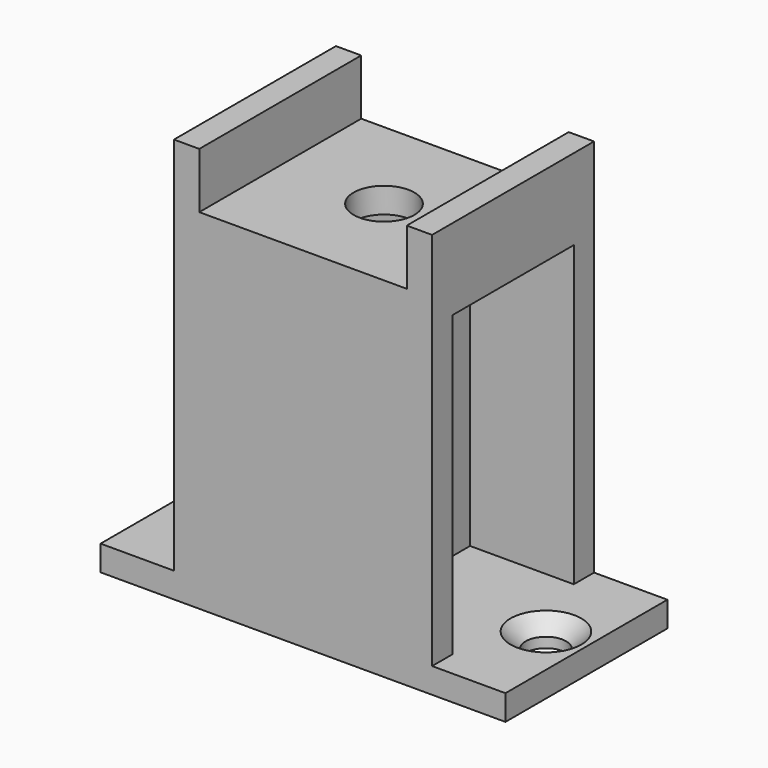
from build123d import *

# Parameters (mm, degrees)
F0_W          = 40
F0_H          = 20
F1_DEPTH      = 40
F3_START      = 2.5
F2_W          = 17.5
F2_H          = 15
F3_DEPTH      = 29.5
F4_W          = 20.5
F4_H          = 5.5
F4_W_2        = 7.25
F4_H_2        = 37.5
F5_DEPTH      = 25
F5_DEPTH_BACK = 25
F6_W          = 15
F6_H          = 6
F7_DEPTH      = 25
F7_DEPTH_BACK = 25
F8_R          = 2
F9_DEPTH      = 25
F9_DEPTH_BACK = 25
F10_SIZE      = 1.5
F12_R         = 3
F13_DEPTH     = 3


with BuildPart() as f1:
    # F0 (on Top) → F1 (new body)
    with BuildSketch(Plane.XY):
        Rectangle(F0_W, F0_H)
    extrude(amount=F1_DEPTH)

    # F2 (on Top) → F3 (cut)
    with BuildSketch(Plane.XY.offset(F3_START)):
        with Locations((-11.25, 0)):
            Rectangle(F2_W, F2_H)
        with Locations((11.25, 0)):
            Rectangle(F2_W, F2_H)
    extrude(amount=F3_DEPTH, mode=Mode.SUBTRACT)

    # F4 (on Front) → F5 (cut, two sides)
    with BuildSketch(Plane.XZ) as f5_sk:
        with Locations((0, 37.25)):
            Rectangle(F4_W, F4_H)
        with Locations((-16.375, 21.25)):
            Rectangle(F4_W_2, F4_H_2)
        with Locations((16.375, 21.25)):
            Rectangle(F4_W_2, F4_H_2)
    extrude(amount=-F5_DEPTH, mode=Mode.SUBTRACT)
    extrude(f5_sk.sketch, amount=F5_DEPTH_BACK, mode=Mode.SUBTRACT)

    # F6 (on Right) → F7 (cut, two sides)
    with BuildSketch(Plane.YZ) as f7_sk:
        with Locations((0, 29)):
            Rectangle(F6_W, F6_H)
    extrude(amount=-F7_DEPTH, mode=Mode.SUBTRACT)
    extrude(f7_sk.sketch, amount=F7_DEPTH_BACK, mode=Mode.SUBTRACT)

    # F8 (on Top) → F9 (cut, two sides)
    with BuildSketch(Plane.XY) as f9_sk:
        with Locations((-16, 0)):
            Circle(F8_R)
        with Locations((16, 0)):
            Circle(F8_R)
    extrude(amount=-F9_DEPTH, mode=Mode.SUBTRACT)
    extrude(f9_sk.sketch, amount=F9_DEPTH_BACK, mode=Mode.SUBTRACT)

    # F10
    f10_edges = [f1.edges().sort_by_distance(p)[0] for p in [
        (-18, 0, 2.5),
        (14, 0, 2.5),
    ]]
    chamfer(f10_edges, length=F10_SIZE)

    # F12 (on offset) → F13 (cut)
    with BuildSketch(Plane.XY.offset(34.5)):
        Circle(F12_R)
    extrude(amount=-F13_DEPTH, mode=Mode.SUBTRACT)


solid = f1.part
